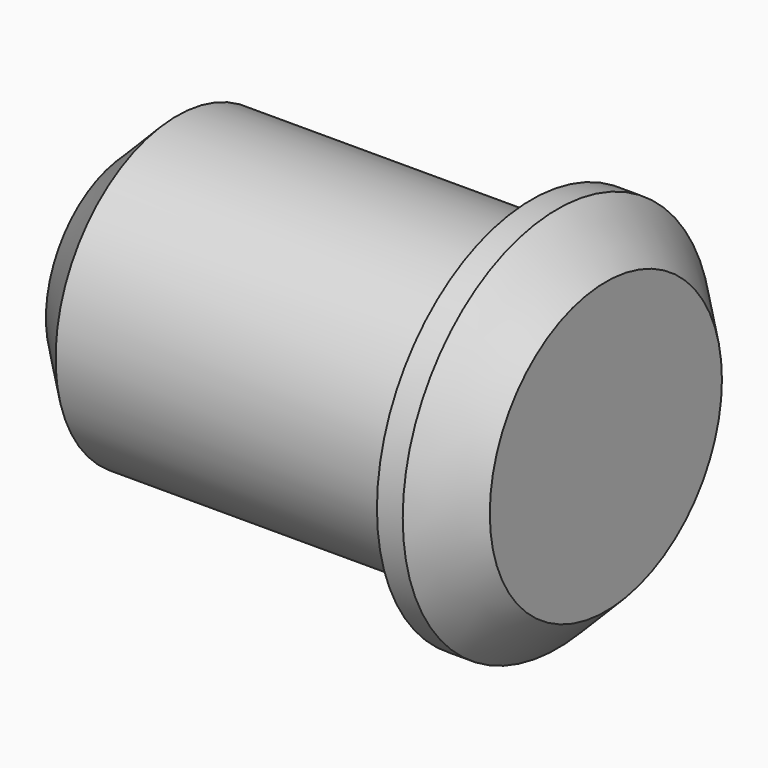
from build123d import *

# Parameters (mm, degrees)
F0_W    = 19.05
F0_H    = 7.1755
F2_SIZE = 2.286


with BuildPart() as f1:
    # F0 (on Top) → F1 (revolve)
    with BuildSketch(Plane.XY):
        with Locations((0, 3.58775)):
            Rectangle(F0_W, F0_H)
        Polygon((9.525, 7.1755), (9.525, 0), (13.0302, 0), (13.0302, 9.144), (9.525, 9.144), align=None)
    revolve(axis=Axis((6.400125, 0, 0), (1, 0, 0)))

    # F2
    f2_edges = [f1.edges().sort_by_distance(p)[0] for p in [
        (13.0302, -9.144, 0),
        (-9.525, -7.1755, 0),
    ]]
    chamfer(f2_edges, length=F2_SIZE)


solid = f1.part
